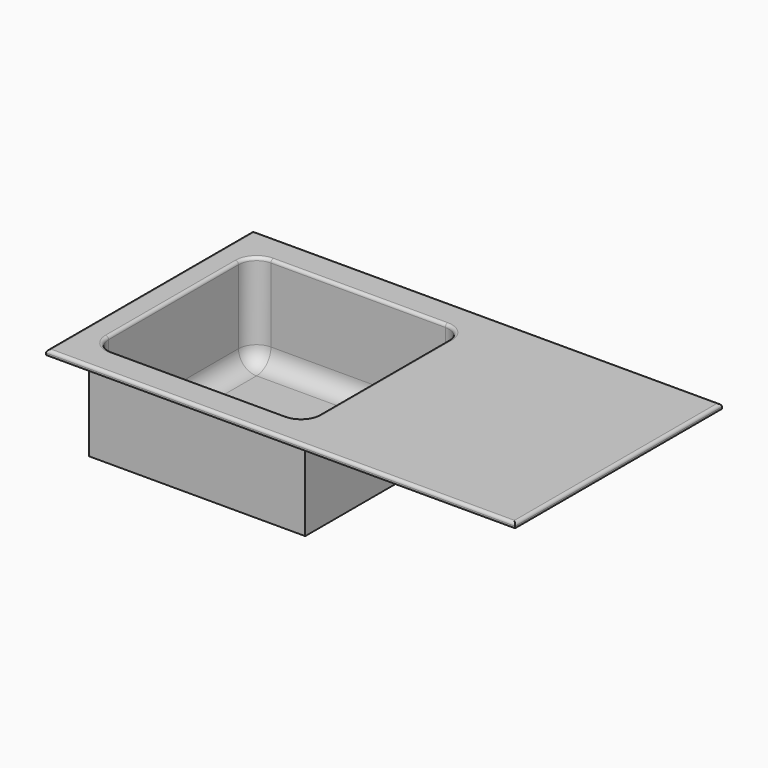
from build123d import *

# Parameters (mm, degrees)
F0_W     = 780
F0_H     = 430
F1_DEPTH = 8
F3_W     = 350
F3_H     = 330
F4_DEPTH = 25
F5_W     = 360
F5_H     = 340
F5_W_2   = 350
F5_H_2   = 330
F6_DEPTH = 150
F7_W     = 360
F7_H     = 340
F7_W_2   = 350
F7_H_2   = 330
F8_DEPTH = 5
F9_R     = 30
F10_R    = 5


with BuildPart() as f1:
    # F0 (on Top) → F1 (new body)
    with BuildSketch(Plane.XY):
        Rectangle(F0_W, F0_H)
    extrude(amount=F1_DEPTH)

    # F3 (on face) → F4 (cut)
    with BuildSketch(Plane.XY.offset(8)):
        with Locations((-175, 0)):
            Rectangle(F3_W, F3_H)
    extrude(amount=-F4_DEPTH, mode=Mode.SUBTRACT)

    # F5 (on face) → F6 (join)
    with BuildSketch(Plane(origin=(0, 0, 0), x_dir=(1, 0, 0), z_dir=(0, 0, -1))):
        with Locations((-175, 0)):
            Rectangle(F5_W, F5_H)
        with Locations((-175, 0)):
            Rectangle(F5_W_2, F5_H_2, mode=Mode.SUBTRACT)
    extrude(amount=F6_DEPTH)

    # F7 (on face) → F8 (join)
    with BuildSketch(Plane(origin=(0, 0, -150), x_dir=(1, 0, 0), z_dir=(0, 0, -1))):
        with Locations((-175, 0)):
            Rectangle(F7_W, F7_H)
        with Locations((-175, 0)):
            Rectangle(F7_W_2, F7_H_2, mode=Mode.SUBTRACT)
        with Locations((-175, 0)):
            Rectangle(F7_W_2, F7_H_2)
    extrude(amount=F8_DEPTH)

    # F9
    f9_edges = [f1.edges().sort_by_distance(p)[0] for p in [
        (-175, 165, -150),
        (0, 0, -150),
        (-175, -165, -150),
        (0, -165, -71),
        (0, 165, -71),
        (-350, 165, -71),
        (-350, 0, -150),
        (-350, -165, -71),
    ]]
    fillet(f9_edges, radius=F9_R)

    # F10
    f10_edges = [f1.edges().sort_by_distance(p)[0] for p in [
        (-390, 0, 8),
        (-175, -165, 8),
        (-341.213203, -156.213203, 8),
        (-8.786797, -156.213203, 8),
        (-350, 0, 8),
        (0, 0, 8),
        (-341.213203, 156.213203, 8),
        (-8.786797, 156.213203, 8),
        (-175, 165, 8),
        (390, 0, 8),
        (0, -215, 8),
        (0, 215, 8),
    ]]
    fillet(f10_edges, radius=F10_R)


solid = f1.part
